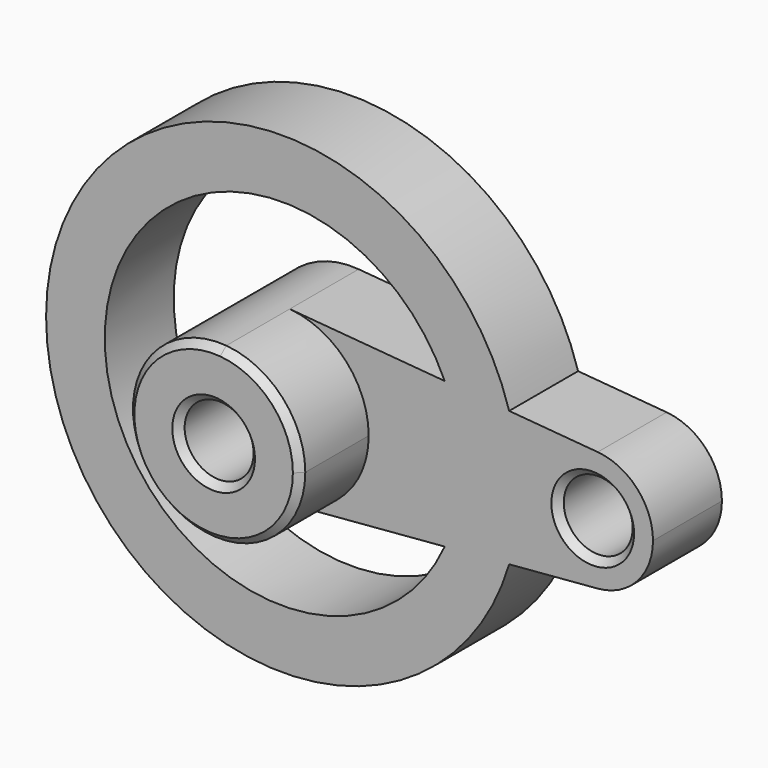
from build123d import *

# Parameters (mm, degrees)
F0_R     = 10
F1_DEPTH = 25
F2_DEPTH = 50
F3_SIZE  = 2
F4_R     = 68.61461
F4_R_2   = 51.589695
F5_DEPTH = 25


with BuildPart() as f1:
    # F0 (on Front) → F1 (new body)
    with BuildSketch(Plane.XZ):
        with BuildLine():
            ThreePointArc((2.083333, -24.913043), (18.399502, -16.92508), (25, 0))
            ThreePointArc((25, 0), (18.399502, 16.92508), (2.083333, 24.913043))
            ThreePointArc((2.083333, 24.913043), (-25, 0), (2.083333, -24.913043))
        make_face()
        Circle(F0_R, mode=Mode.SUBTRACT)
        with BuildLine():
            ThreePointArc((2.083333, 24.913043), (18.399502, 16.92508), (25, 0))
            ThreePointArc((25, 0), (18.399502, -16.92508), (2.083333, -24.913043))
            Line((2.083333, -24.913043), (91.458333, -17.43913))
            ThreePointArc((91.458333, -17.43913), (72.5, 0), (91.458333, 17.43913))
            Line((91.458333, 17.43913), (2.083333, 24.913043))
        make_face()
        with BuildLine():
            ThreePointArc((107.5, 0), (102.879651, 11.847556), (91.458333, 17.43913))
            ThreePointArc((91.458333, 17.43913), (72.5, 0), (91.458333, -17.43913))
            ThreePointArc((91.458333, -17.43913), (102.879651, -11.847556), (107.5, 0))
        make_face()
        with Locations((90, 0)):
            Circle(F0_R, mode=Mode.SUBTRACT)
    extrude(amount=F1_DEPTH)

    # F0 (on Front) → F2 (join)
    with BuildSketch(Plane.XZ):
        with BuildLine():
            ThreePointArc((2.083333, -24.913043), (18.399502, -16.92508), (25, 0))
            ThreePointArc((25, 0), (18.399502, 16.92508), (2.083333, 24.913043))
            ThreePointArc((2.083333, 24.913043), (-25, 0), (2.083333, -24.913043))
        make_face()
        Circle(F0_R, mode=Mode.SUBTRACT)
    extrude(amount=F2_DEPTH)

    # F3
    f3_edges = [f1.edges().sort_by_distance(p)[0] for p in [
        (-2.083333, -50, 24.913043),
        (-10, -50, 0),
        (80, -25, 0),
    ]]
    chamfer(f3_edges, length=F3_SIZE)

    # F4 (on Front) → F5 (join)
    with BuildSketch(Plane.XZ):
        Circle(F4_R)
        Circle(F4_R_2, mode=Mode.SUBTRACT)
    extrude(amount=F5_DEPTH)


solid = f1.part
